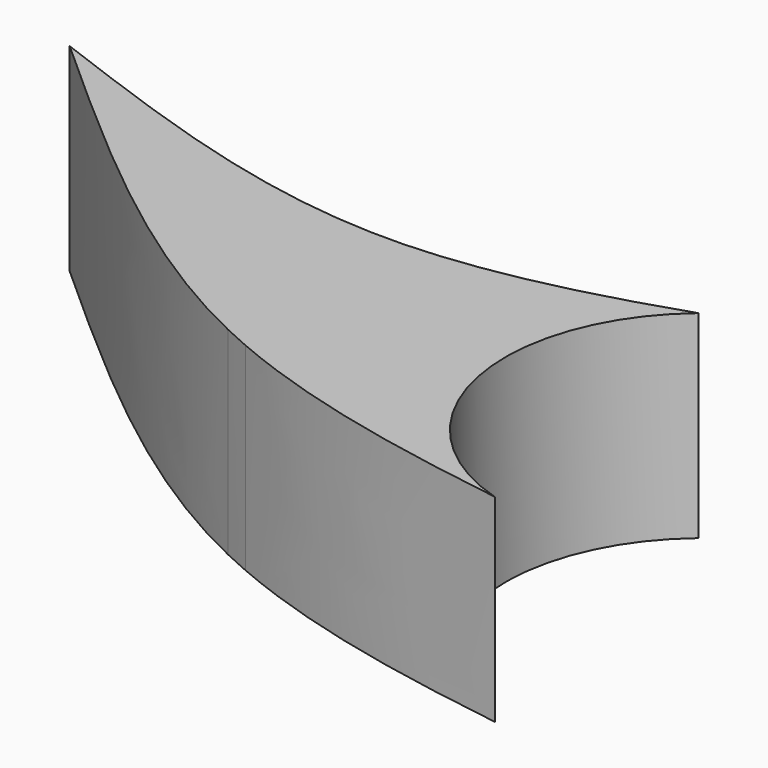
from build123d import *

# Parameters (mm, degrees)
F1_DEPTH = 12.7


with BuildPart() as f1:
    # F0 (on Top) → F1 (new body)
    with BuildSketch(Plane.XY):
        with BuildLine():
            add(Edge.make_bspline(
                [(1.7290367633, -7.1307740728), (1.1531152208, -6.8833535208), (0.5769678307, -6.6234372579), (0, -6.35)],
                knots=[0.4419427997, 0.4419427997, 0.4419427997, 0.4419427997, 0.47591475, 0.47591475, 0.47591475, 0.47591475], degree=3))
            add(Edge.make_bspline(
                [(21.7617284643, -12.1677023399), (14.9447521622, -11.1425562498), (8.1762626666, -9.8900119639), (1.7290367633, -7.1307740728)],
                knots=[0.0667386023, 0.0667386023, 0.0667386023, 0.0667386023, 0.4421962315, 0.4421962315, 0.4421962315, 0.4421962315], degree=3))
            ThreePointArc((21.7617284643, -12.1677023399), (12.9587720709, -2.5506563108), (17.2673237739, 9.7544644856))
            add(Edge.make_bspline(
                [(17.2673237739, 9.7544644856), (11.5115491826, 7.8173251492), (-2.7108920754, 4.1915845283), (-16.9333333333, 9.525), (-25.4, 12.7)],
                knots=[0.1600920517, 0.1600920517, 0.1600920517, 0.1600920517, 0.5, 1, 1, 1, 1], degree=3))
            add(Edge.make_bspline(
                [(-5.7e-08, -6.3499999729), (-8.91579083, -2.1063464946), (-17.157895415, 5.2968267527), (-25.4, 12.7)],
                knots=[0.4759147512, 0.4759147512, 0.4759147512, 0.4759147512, 1, 1, 1, 1], degree=3))
        make_face()
    extrude(amount=F1_DEPTH)


solid = f1.part
